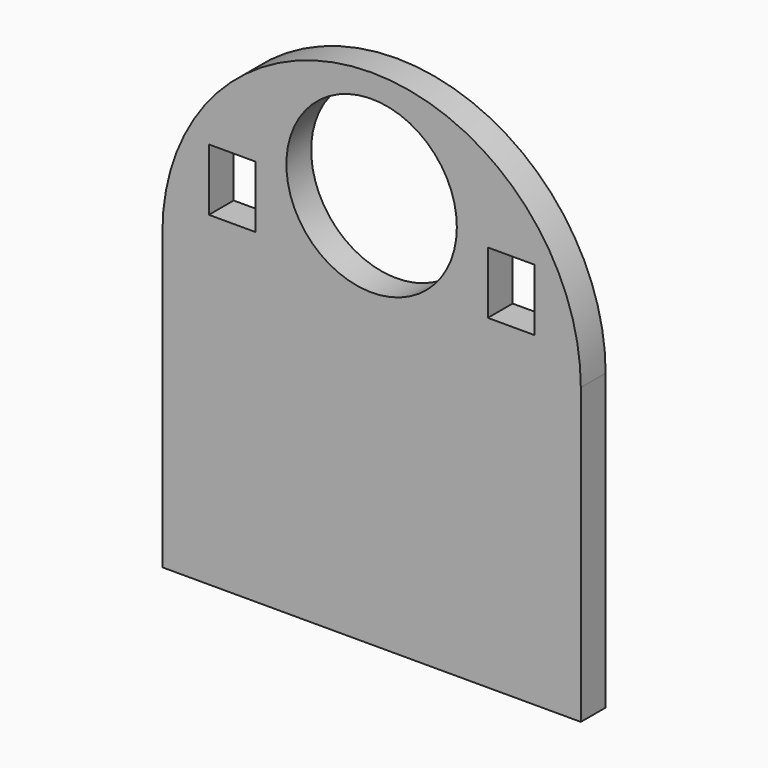
from build123d import *

# Parameters (mm, degrees)
F1_DEPTH = 2
F2_R     = 5.5
F2_W     = 3
F2_H     = 4
F3_DEPTH = 2


with BuildPart() as f1:
    # F0 (on Front) → F1 (new body)
    with BuildSketch(Plane.XZ):
        with BuildLine():
            ThreePointArc((-13.5, 0), (0, -13.5), (13.5, 0))
            ThreePointArc((13.5, 0), (0, 13.5), (-13.5, 0))
        make_face()
        with BuildLine():
            Line((13.5, -19), (13.5, 0))
            ThreePointArc((13.5, 0), (0, -13.5), (-13.5, 0))
            Line((-13.5, 0), (-13.5, -19))
            Line((-13.5, -19), (13.5, -19))
        make_face()
    extrude(amount=F1_DEPTH)

    # F2 (on face) → F3 (cut)
    with BuildSketch(Plane.XZ.offset(2)):
        with Locations((0, 6.5)):
            Circle(F2_R)
        with Locations((-9, 4)):
            Rectangle(F2_W, F2_H)
        with Locations((9, 4)):
            Rectangle(F2_W, F2_H)
    extrude(amount=-F3_DEPTH, mode=Mode.SUBTRACT)


solid = f1.part
